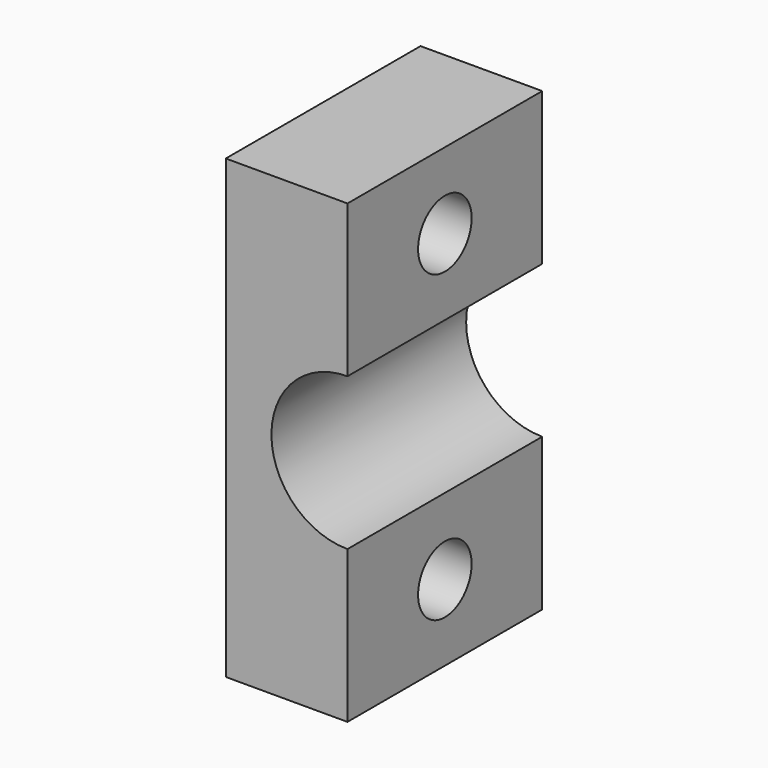
from build123d import *

# Parameters (mm, degrees)
BOX053_W                  = 10
BOX053_H                  = 4
BOX053_DEPTH              = 5.8
CYLINDER066_R             = 2.2
CYLINDER066_DEPTH         = 20
CYLINDER067_R             = 2.2
CYLINDER067_DEPTH         = 20
CYLINDER064_R             = 5
CYLINDER064_DEPTH         = 16
BOX051_W                  = 30
BOX051_H                  = 8
BOX051_DEPTH              = 16
FUSION036_PITCH_ANGLE     = 90
FUSION036_PLACEMENT_ANGLE = 90


with BuildPart() as quader032:
    # Box053 → Box053 (new body)
    with BuildSketch(Plane(origin=(-5, 8, 5), x_dir=(1, 0, 0), z_dir=(0, 0, 1))):
        with Locations((5, 2)):
            Rectangle(BOX053_W, BOX053_H)
    extrude(amount=BOX053_DEPTH)


with BuildPart() as zylinder055:
    # Cylinder066 → Cylinder066 (new body)
    with BuildSketch(Plane(origin=(-10, 9, 8), x_dir=(1, 0, 0), z_dir=(0, -1, 0))):
        Circle(CYLINDER066_R)
    extrude(amount=CYLINDER066_DEPTH)


with BuildPart() as zylinder056:
    # Cylinder067 → Cylinder067 (new body)
    with BuildSketch(Plane(origin=(10, 9, 8), x_dir=(1, 0, 0), z_dir=(0, -1, 0))):
        Circle(CYLINDER067_R)
    extrude(amount=CYLINDER067_DEPTH)


with BuildPart() as zylinder053:
    # Cylinder064 → Cylinder064 (new body)
    with BuildSketch(Plane.XY):
        Circle(CYLINDER064_R)
    extrude(amount=CYLINDER064_DEPTH)


with BuildPart() as y_mount_bottom:
    # Box051 → Box051 (new body)
    with BuildSketch(Plane(origin=(-15, 0, 0), x_dir=(1, 0, 0), z_dir=(0, 0, 1))):
        with Locations((15, 4)):
            Rectangle(BOX051_W, BOX051_H)
    extrude(amount=BOX051_DEPTH)

    # Cut071: cut Zylinder053
    add(zylinder053.part, mode=Mode.SUBTRACT)

    # Cut073: cut Zylinder056
    add(zylinder056.part, mode=Mode.SUBTRACT)

    # Cut074: cut Zylinder055
    add(zylinder055.part, mode=Mode.SUBTRACT)

    # Fusion036: union Quader032
    add(quader032.part)


with BuildPart() as y_mount_bottom_1:
    # Fusion036 pitch: moved
    add(y_mount_bottom.part.rotate(Axis((0, 0, 0), (0, 1, 0)), FUSION036_PITCH_ANGLE))


with BuildPart() as y_mount_bottom_2:
    # Fusion036 placement: moved
    add(y_mount_bottom_1.part.moved(Location((-9.75, -14.15, 29.85))).rotate(Axis((-9.75, -14.15, 29.85), (0, 0, 1)), FUSION036_PLACEMENT_ANGLE))


solid = y_mount_bottom_2.part
